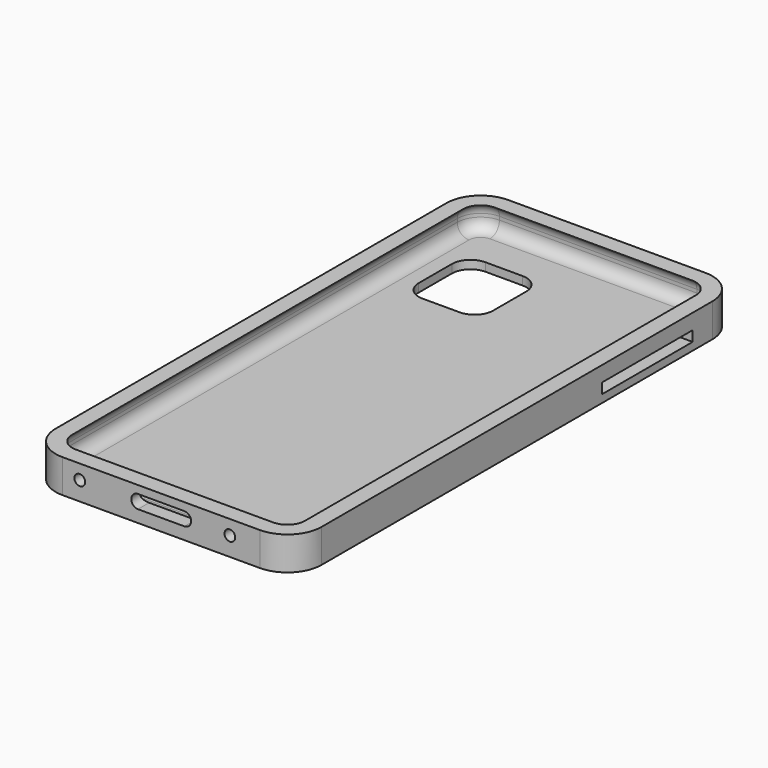
from build123d import *

# Parameters (mm, degrees)
PAD_DEPTH       = 8
FILLET_R        = 3.5
PAD001_DEPTH    = 2.5
PAD002_DEPTH    = 10
SKETCH002_R     = 1.607891
POCKET_DEPTH    = 5
POCKET001_DEPTH = 2.501
SKETCH004_W     = 33.802838
SKETCH004_H     = 3.098588
POCKET002_DEPTH = 5


with BuildPart() as obj1:
    # Sketch → Pad (new body)
    with BuildSketch(Plane.XY):
        with BuildLine():
            ThreePointArc((-29.5, 80), (-34.449747, 77.949747), (-36.5, 73))
            Line((-36.5, -73), (-36.5, 73))
            ThreePointArc((-36.5, -73), (-34.449747, -77.949747), (-29.5, -80))
            Line((29.5, -80), (-29.5, -80))
            ThreePointArc((29.5, -80), (34.449747, -77.949747), (36.5, -73))
            Line((36.5, 73), (36.5, -73))
            ThreePointArc((36.5, 73), (34.449747, 77.949747), (29.5, 80))
            Line((-29.5, 80), (29.5, 80))
        make_face()
    extrude(amount=PAD_DEPTH)

    # Fillet
    fillet_edges = [obj1.edges().sort_by_distance(p)[0] for p in [
        (-34.449747, 77.949747, 8),
        (-36.5, 0, 8),
        (-34.449747, -77.949747, 8),
        (0, -80, 8),
        (34.449747, -77.949747, 8),
        (36.5, 0, 8),
        (34.449747, 77.949747, 8),
        (0, 80, 8),
        (-34.449747, 77.949747, 0),
        (-36.5, 0, 0),
        (-34.449747, -77.949747, 0),
        (0, -80, 0),
        (34.449747, -77.949747, 0),
        (36.5, 0, 0),
        (34.449747, 77.949747, 0),
        (0, 80, 0),
    ]]
    fillet(fillet_edges, radius=FILLET_R)

    # Sketch001 (on Face11 of Fillet) → Pad001 (join, symmetric)
    with BuildSketch(Plane.XY.offset(8)):
        with BuildLine():
            ThreePointArc((-29.5, 78.25), (-33.212311, 76.712311), (-34.75, 73))
            Line((-34.75, -73), (-34.75, 73))
            ThreePointArc((-34.75, -73), (-33.212311, -76.712311), (-29.5, -78.25))
            Line((29.5, -78.25), (-29.5, -78.25))
            ThreePointArc((29.5, -78.25), (33.212311, -76.712311), (34.75, -73))
            Line((34.75, 73), (34.75, -73))
            ThreePointArc((34.75, 73), (33.212311, 76.712311), (29.5, 78.25))
            Line((-29.5, 78.25), (29.5, 78.25))
        make_face()
    extrude(amount=PAD001_DEPTH, both=True)


with BuildPart() as casebody:
    # Binder → Pad002 (new body)
    with BuildSketch(Plane(origin=(0, 0, 7.5), x_dir=(0, 1, 0), z_dir=(0, 0, 1))):
        with BuildLine():
            ThreePointArc((83.25, 29.5), (80.247845, 36.747845), (73, 39.75))
            Line((73, 39.75), (-73, 39.75))
            ThreePointArc((-73, 39.75), (-80.247845, 36.747845), (-83.25, 29.5))
            Line((-83.25, 29.5), (-83.25, -29.5))
            ThreePointArc((-83.25, -29.5), (-80.247845, -36.747845), (-73, -39.75))
            Line((-73, -39.75), (73, -39.75))
            ThreePointArc((73, -39.75), (80.247845, -36.747845), (83.25, -29.5))
            Line((83.25, -29.5), (83.25, 29.5))
        make_face()
    extrude(amount=-PAD002_DEPTH)

    # Boolean: cut obj1
    add(obj1.part, mode=Mode.SUBTRACT)

    # Sketch002 (on Face9 of Boolean) → Pocket (cut)
    with BuildSketch(Plane.XZ.offset(83.25)):
        with Locations((-24.328213, 3.143363)):
            Circle(SKETCH002_R)
        with Locations((20.529039, 3.143363)):
            Circle(SKETCH002_R)
        with BuildLine():
            ThreePointArc((-6.939364, 5.148021), (-8.944022, 3.143363), (-6.939364, 1.138705))
            Line((-6.939364, 1.138705), (6.939364, 1.138705))
            ThreePointArc((6.939364, 1.138705), (8.944022, 3.143363), (6.939364, 5.148021))
            Line((6.939364, 5.148021), (-6.939364, 5.148021))
        make_face()
    extrude(amount=-POCKET_DEPTH, mode=Mode.SUBTRACT)

    # Sketch003 (on Face44 of Pocket) → Pocket001 (cut, through all)
    with BuildSketch(Plane.XY):
        with BuildLine():
            ThreePointArc((-22.971405, 66.593148), (-26.905647, 64.963532), (-28.535263, 61.02929))
            Line((-28.535263, 48.647752), (-28.535263, 61.02929))
            ThreePointArc((-28.535263, 48.647752), (-26.905647, 44.71351), (-22.971405, 43.083894))
            Line((-11.843698, 43.083894), (-22.971405, 43.083894))
            ThreePointArc((-11.843698, 43.083894), (-7.909456, 44.71351), (-6.27984, 48.647752))
            Line((-6.27984, 61.02929), (-6.27984, 48.647752))
            ThreePointArc((-6.27984, 61.02929), (-7.909456, 64.963532), (-11.843698, 66.593148))
            Line((-22.971405, 66.593148), (-11.843698, 66.593148))
        make_face()
    extrude(amount=-POCKET001_DEPTH, mode=Mode.SUBTRACT)

    # Sketch004 (on Face8 of Pocket001) → Pocket002 (cut)
    with BuildSketch(Plane.YZ.offset(39.75)):
        with Locations((48.748877, 1.369124)):
            Rectangle(SKETCH004_W, SKETCH004_H)
    extrude(amount=-POCKET002_DEPTH, mode=Mode.SUBTRACT)


solid = casebody.part
